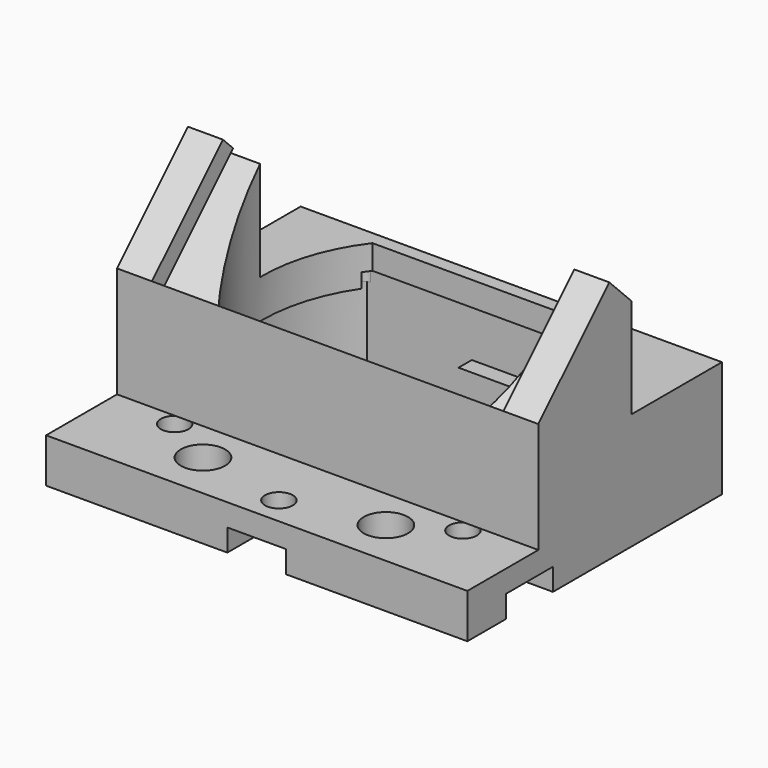
from build123d import *

# Parameters (mm, degrees)
F0_W      = 38
F0_H      = 28.5
F1_DEPTH  = 19.5
F2_W      = 8
F2_H      = 15.5
F4_DEPTH  = 38
F6_DEPTH  = 19.5
F3_W      = 10
F3_H      = 9
F7_DEPTH  = 38
F9_DEPTH  = 38
F11_DEPTH = 7
F12_R     = 2
F13_DEPTH = 4
F15_DEPTH = 1.65
F17_DEPTH = 1.5
F19_DEPTH = 1.65
F21_DEPTH = 1.5
F23_DEPTH = 1.5
F25_DEPTH = 6
F27_DEPTH = 1.5
F29_DEPTH = 6
F30_W     = 38
F30_H     = 10.5
F31_DEPTH = 0.2
F33_DEPTH = 1.3
F34_R     = 1.25
F35_DEPTH = 4
F36_W     = 5.3
F36_H     = 2
F37_DEPTH = 8.65
F38_W     = 5.3
F38_H     = 2
F39_DEPTH = 8.65
F40_W     = 5.3
F40_H     = 2
F41_DEPTH = 5.15


with BuildPart() as f1:
    # F0 (on Top) → F1 (new body)
    with BuildSketch(Plane.XY):
        with Locations((3.11301895, 14.25)):
            Rectangle(F0_W, F0_H)
    extrude(amount=F1_DEPTH)

    # F2 (on face) → F4 (cut)
    with BuildSketch(Plane.YZ.offset(22.11301895)):
        with Locations((4, 11.75)):
            Rectangle(F2_W, F2_H)
    extrude(amount=-F4_DEPTH, mode=Mode.SUBTRACT)

    # F5 (on face) → F6 (cut)
    with BuildSketch(Plane.XY.offset(19.5)):
        with BuildLine():
            ThreePointArc((-8.4493121299, 27.5), (-11.38698105, 18.75), (-8.4493121299, 10))
            Line((-8.4493121299, 10), (14.6753500298, 10))
            ThreePointArc((14.6753500298, 10), (17.61301895, 18.75), (14.6753500298, 27.5))
            Line((14.6753500298, 27.5), (-8.4493121299, 27.5))
        make_face()
    extrude(amount=-F6_DEPTH, mode=Mode.SUBTRACT)

    # F3 (on face) → F7 (cut)
    with BuildSketch(Plane.YZ.offset(22.11301895)):
        with Locations((23.5, 15)):
            Rectangle(F3_W, F3_H)
    extrude(amount=-F7_DEPTH, mode=Mode.SUBTRACT)

    # F8 (on face) → F9 (cut)
    with BuildSketch(Plane.YZ.offset(22.11301895)):
        Polygon((18.5, 19.5), (8, 19.5), (8, 14), (10.5, 11.5), align=None)
    extrude(amount=-F9_DEPTH, mode=Mode.SUBTRACT)

    # F10 (on face) → F11 (cut)
    with BuildSketch(Plane(origin=(0, 0, 0), x_dir=(1, 0, 0), z_dir=(0, 0, -1))):
        with BuildLine():
            Line((15.5503619138, -9.5), (-9.3243240138, -9.5))
            ThreePointArc((-9.3243240138, -9.5), (-12.38698105, -18.75), (-9.3243240138, -28))
            Line((-9.3243240138, -28), (15.5503619138, -28))
            ThreePointArc((15.5503619138, -28), (18.61301895, -18.75), (15.5503619138, -9.5))
        make_face()
    extrude(amount=-F11_DEPTH, mode=Mode.SUBTRACT)

    # F12 (on face) → F13 (cut)
    with BuildSketch(Plane.XY.offset(4)):
        with Locations((-5.13698105, 4.25)):
            Circle(F12_R)
        with Locations((11.36301895, 4.25)):
            Circle(F12_R)
    extrude(amount=-F13_DEPTH, mode=Mode.SUBTRACT)

    # F14 (on face) → F15 (join)
    with BuildSketch(Plane.YZ.offset(22.11301895)):
        Polygon((8, 14), (10.5, 11.5), (18.5, 19.5), (16, 22), align=None)
    extrude(amount=-F15_DEPTH)

    # F16 (on face) → F17 (join)
    with BuildSketch(Plane(origin=(20.46301895, 0, 0), x_dir=(0, -1, 0), z_dir=(-1, 0, 0))):
        Polygon((-9.1564971157, 12.8435028843), (-8, 14), (-16, 22), (-17.1564971157, 20.8435028843), align=None)
    extrude(amount=F17_DEPTH)

    # F18 (on face) → F19 (join)
    with BuildSketch(Plane(origin=(-15.88698105, 0, 0), x_dir=(0, -1, 0), z_dir=(-1, 0, 0))):
        Polygon((-18.5, 19.5), (-10.5, 11.5), (-8, 14), (-16, 22), align=None)
    extrude(amount=-F19_DEPTH)

    # F20 (on face) → F21 (join)
    with BuildSketch(Plane.YZ.offset(-14.23698105)):
        Polygon((17.1564971157, 20.8435028843), (16, 22), (8, 14), (9.1564971157, 12.8435028843), align=None)
    extrude(amount=F21_DEPTH)

    # F22 (on face) → F23 (join)
    with BuildSketch(Plane(origin=(0, 9.5, 0), x_dir=(-1, 0, 0), z_dir=(0, 1, 0))):
        Polygon((-0.11301895, 3.8), (-3.11301895, 3.8), (-6.11301895, 3.8), (-6.11301895, 2.8), (-0.11301895, 2.8), align=None)
    extrude(amount=F23_DEPTH)

    # F24 (on face) → F25 (cut)
    with BuildSketch(Plane(origin=(0.11301895, 0, 0), x_dir=(0, -1, 0), z_dir=(-1, 0, 0))):
        Polygon((-11, 2.8), (-9.5, 2.8), (-11, 3.8), align=None)
    extrude(amount=-F25_DEPTH, mode=Mode.SUBTRACT)

    # F26 (on face) → F27 (join)
    with BuildSketch(Plane.XZ.offset(-28)):
        Polygon((6.11301895, 3.8), (3.11301895, 3.8), (0.11301895, 3.8), (0.11301895, 2.8), (6.11301895, 2.8), align=None)
    extrude(amount=F27_DEPTH)

    # F28 (on face) → F29 (cut)
    with BuildSketch(Plane(origin=(0.11301895, 0, 0), x_dir=(0, -1, 0), z_dir=(-1, 0, 0))):
        Polygon((-26.5, 3.8), (-28, 2.8), (-26.5, 2.8), align=None)
    extrude(amount=-F29_DEPTH, mode=Mode.SUBTRACT)

    # F30 (on face) → F31 (join)
    with BuildSketch(Plane(origin=(0, 28.5, 0), x_dir=(-1, 0, 0), z_dir=(0, 1, 0))):
        with Locations((-3.11301895, 5.25)):
            Rectangle(F30_W, F30_H)
    extrude(amount=F31_DEPTH)

    # F32 (on face) → F33 (cut)
    with BuildSketch(Plane(origin=(0, 0, 7), x_dir=(1, 0, 0), z_dir=(0, 0, -1))):
        with BuildLine():
            ThreePointArc((-9.0293473605, -9.5), (-9.4394942054, -10.4901820755), (-8.4493121299, -10.0800352306))
            Line((-8.4493121299, -10.0800352306), (-8.4493121299, -27.4199647694))
            ThreePointArc((-8.4493121299, -27.4199647694), (-9.4394942054, -27.0098179245), (-9.0293473605, -28))
            Line((-9.0293473605, -28), (15.2553852604, -28))
            ThreePointArc((15.2553852604, -28), (15.6655321053, -27.0098179245), (14.6753500298, -27.4199647694))
            Line((14.6753500298, -27.4199647694), (14.6753500298, -10.0800352306))
            ThreePointArc((14.6753500298, -10.0800352306), (15.6655321053, -10.4901820755), (15.2553852604, -9.5))
            Line((15.2553852604, -9.5), (-9.0293473605, -9.5))
        make_face()
    extrude(amount=-F33_DEPTH, mode=Mode.SUBTRACT)

    # F34 (on face) → F35 (cut)
    with BuildSketch(Plane(origin=(0, 0, 0), x_dir=(1, 0, 0), z_dir=(0, 0, -1))):
        with Locations((-9.88698105, -7)):
            Circle(F34_R)
        with Locations((16.11301895, -7)):
            Circle(F34_R)
        with Locations((3.11301895, -2.5)):
            Circle(F34_R)
    extrude(amount=-F35_DEPTH, mode=Mode.SUBTRACT)

    # F36 (on face) → F37 (cut)
    with BuildSketch(Plane(origin=(-15.88698105, 0, 0), x_dir=(0, -1, 0), z_dir=(-1, 0, 0))):
        with Locations((-7, 1)):
            Rectangle(F36_W, F36_H)
    extrude(amount=-F37_DEPTH, mode=Mode.SUBTRACT)

    # F38 (on face) → F39 (cut)
    with BuildSketch(Plane.YZ.offset(22.11301895)):
        with Locations((7, 1)):
            Rectangle(F38_W, F38_H)
    extrude(amount=-F39_DEPTH, mode=Mode.SUBTRACT)

    # F40 (on face) → F41 (cut)
    with BuildSketch(Plane.XZ):
        with Locations((3.11301895, 1)):
            Rectangle(F40_W, F40_H)
    extrude(amount=-F41_DEPTH, mode=Mode.SUBTRACT)


solid = f1.part
